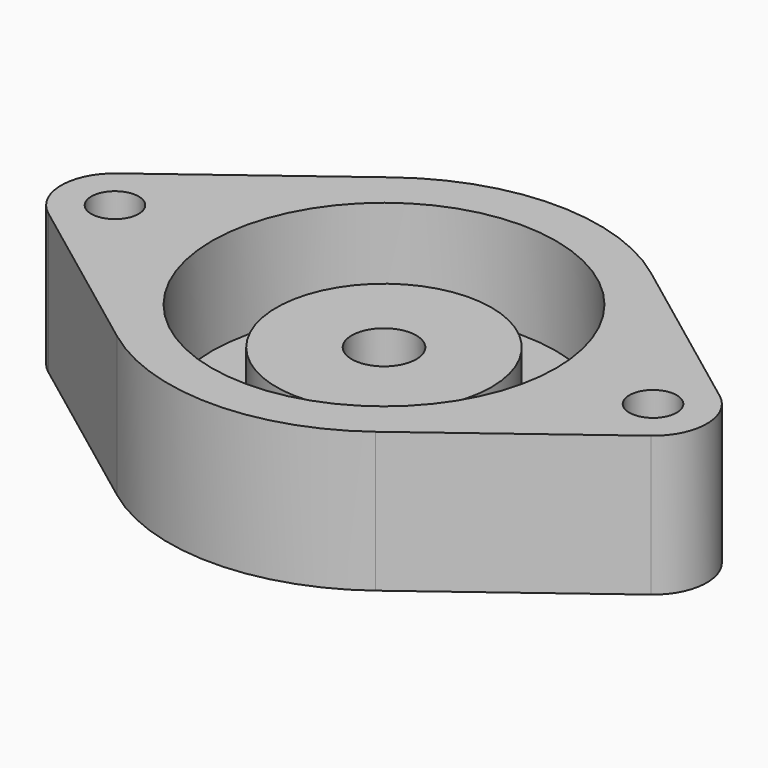
from build123d import *

# Parameters (mm, degrees)
SKETCH_R        = 2.2
PAD_DEPTH       = 13
SKETCH001_R     = 16
POCKET_DEPTH    = 3.5
SKETCH002_R     = 16
SKETCH002_R_2   = 10
POCKET001_DEPTH = 5.5
CHAMFER_SIZE    = 1.8
SKETCH003_R     = 3
POCKET002_DEPTH = 9.501
SKETCH004_R     = 16
SKETCH004_R_2   = 1.6
PAD001_DEPTH    = 1


with BuildPart() as f_5_drillhole_pocket:
    # Sketch → Pad (new body)
    with BuildSketch(Plane.XY):
        with BuildLine():
            ThreePointArc((-28.000001, 4.000003), (-30.000004, 0), (-28.000001, -4.000003))
            Line((-28.000001, -4.000003), (-11.999986, -16.000011))
            ThreePointArc((-11.999986, -16.000011), (1e-06, -20), (11.999988, -16.000009))
            Line((11.999988, -16.000009), (27.999993, -4.000002))
            ThreePointArc((27.999993, -4.000002), (29.999996, 0), (27.999993, 4.000002))
            Line((11.999987, 16.00001), (27.999993, 4.000002))
            ThreePointArc((11.999987, 16.00001), (0, 20), (-11.999987, 16.00001))
            Line((-28.000001, 4.000003), (-11.999987, 16.00001))
        make_face()
        with Locations((-25.000004, 0)):
            Circle(SKETCH_R, mode=Mode.SUBTRACT)
        with Locations((24.999996, 0)):
            Circle(SKETCH_R, mode=Mode.SUBTRACT)
    extrude(amount=PAD_DEPTH)

    # Sketch001 → Pocket (cut)
    with BuildSketch(Plane.XY.offset(13)):
        Circle(SKETCH001_R)
    extrude(amount=-POCKET_DEPTH, mode=Mode.SUBTRACT)

    # Sketch002 → Pocket001 (cut)
    with BuildSketch(Plane.XY.offset(9.5)):
        Circle(SKETCH002_R)
        Circle(SKETCH002_R_2, mode=Mode.SUBTRACT)
    extrude(amount=-POCKET001_DEPTH, mode=Mode.SUBTRACT)

    # Chamfer
    chamfer_edges = [f_5_drillhole_pocket.edges().sort_by_distance(p)[0] for p in [
        (-27.200004, 0, 0),
        (22.799996, 0, 0),
    ]]
    chamfer(chamfer_edges, length=CHAMFER_SIZE)

    # Sketch003 → Pocket002 (cut, through all)
    with BuildSketch(Plane.XY.offset(9.5)):
        Circle(SKETCH003_R)
    extrude(amount=-POCKET002_DEPTH, mode=Mode.SUBTRACT)


with BuildPart() as f_1_feetpadbase_pad:
    # Sketch004 → Pad001 (new body)
    with BuildSketch(Plane.XY):
        Circle(SKETCH004_R)
        Circle(SKETCH004_R_2, mode=Mode.SUBTRACT)
    extrude(amount=PAD001_DEPTH)


solid = Compound([f_5_drillhole_pocket.part, f_1_feetpadbase_pad.part])
